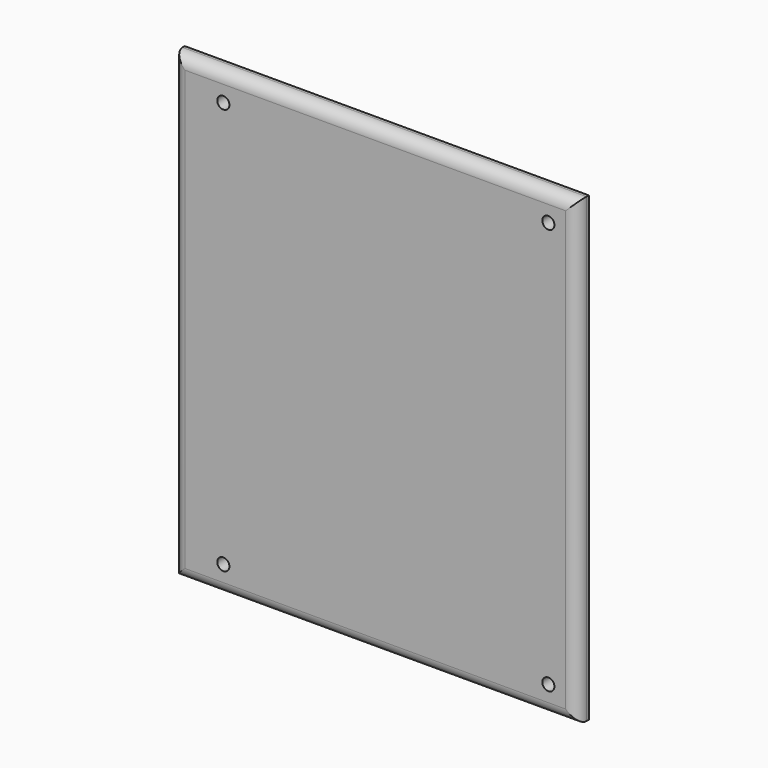
from build123d import *

# Parameters (mm, degrees)
F0_W     = 70
F0_H     = 80
F0_R     = 1.05
F1_DEPTH = 2.5
F2_R     = 2


with BuildPart() as f1:
    # F0 (on Front) → F1 (new body)
    with BuildSketch(Plane.XZ):
        with Locations((-6.523669, 13.454498)):
            Rectangle(F0_W, F0_H)
        with Locations((-32.844519, -21.745502)):
            Circle(F0_R, mode=Mode.SUBTRACT)
        with Locations((23.476331, -21.745502)):
            Circle(F0_R, mode=Mode.SUBTRACT)
        with Locations((-32.844519, 48.654498)):
            Circle(F0_R, mode=Mode.SUBTRACT)
        with Locations((23.476331, 48.654498)):
            Circle(F0_R, mode=Mode.SUBTRACT)
    extrude(amount=F1_DEPTH)

    # F2
    f2_edges = [f1.edges().sort_by_distance(p)[0] for p in [
        (-6.523669, -2.5, 53.454498),
        (-41.523669, -2.5, 13.454498),
        (-6.523669, -2.5, -26.545502),
        (28.476331, -2.5, 13.454498),
    ]]
    fillet(f2_edges, radius=F2_R)


solid = f1.part
